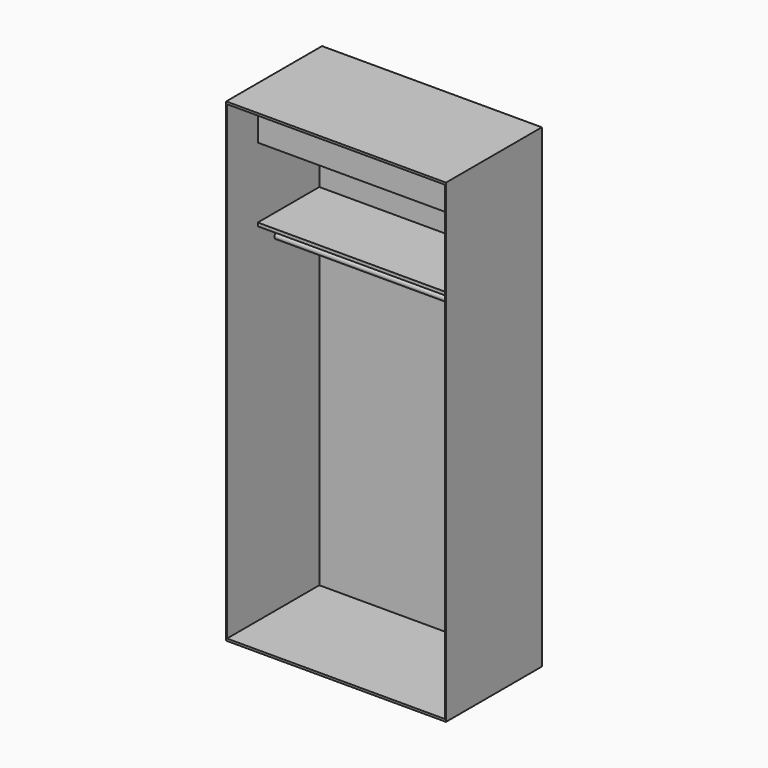
from build123d import *

# Parameters (mm, degrees)
F0_W     = 1270
F0_H     = 2743.2
F1_DEPTH = 25.4
F2_W     = 1270
F2_H     = 2743.2
F2_W_2   = 1260.475
F2_H_2   = 2717.8
F3_DEPTH = 666.75
F4_W     = 1260.475
F4_H     = 285.75
F4_H_2   = 19.05
F5_DEPTH = 444.5
F6_R     = 19.05
F7_DEPTH = 1260.475


with BuildPart() as f1:
    # F0 (on Front) → F1 (new body)
    with BuildSketch(Plane.XZ):
        Rectangle(F0_W, F0_H)
    extrude(amount=F1_DEPTH)

    # F2 (on face) → F3 (join)
    with BuildSketch(Plane.XZ.offset(25.4)):
        Rectangle(F2_W, F2_H)
        Rectangle(F2_W_2, F2_H_2, mode=Mode.SUBTRACT)
    extrude(amount=F3_DEPTH)

    # F4 (on face) → F5 (join)
    with BuildSketch(Plane.XZ.offset(25.4)):
        with Locations((0, 1216.025)):
            Rectangle(F4_W, F4_H)
        with Locations((0, 657.225)):
            Rectangle(F4_W, F4_H_2)
    extrude(amount=F5_DEPTH)


with BuildPart() as f7:
    # F6 (on face) → F7 (new body, through all)
    with BuildSketch(Plane(origin=(630.2375, 0, 0), x_dir=(0, -1, 0), z_dir=(-1, 0, 0))):
        with Locations((330.2, 546.1)):
            Circle(F6_R)
    extrude(amount=F7_DEPTH)


solid = Compound([f1.part, f7.part])
